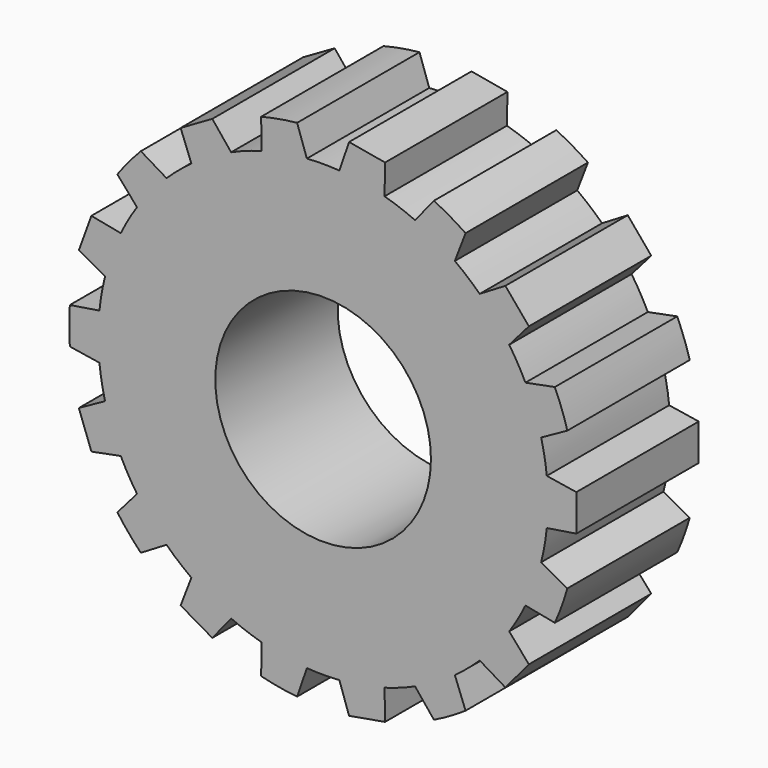
from build123d import *

# Parameters (mm, degrees)
F0_R     = 17.907
F1_DEPTH = 25.4


with BuildPart() as f1:
    # F0 (on Front) → F1 (new body)
    with BuildSketch(Plane.XZ):
        with BuildLine():
            Line((42.05466, 3.034541), (37.142847, 3.812496))
            ThreePointArc((37.142847, 3.812496), (36.770752, 6.483676), (36.20681, 9.121028))
            Line((36.20681, 9.121028), (40.556328, 11.532005))
            ThreePointArc((40.556328, 11.532005), (39.6212, 14.420937), (38.48058, 17.235077))
            Line((38.48058, 17.235077), (33.598909, 16.286176))
            ThreePointArc((33.598909, 16.286176), (32.335657, 18.669), (30.903697, 20.954421))
            Line((30.903697, 20.954421), (34.166304, 24.707621))
            Line((34.166304, 24.707621), (30.265173, 29.356808))
            Line((30.265173, 29.356808), (26.002447, 26.795504))
            ThreePointArc((26.002447, 26.795504), (24.000404, 28.602567), (21.873142, 30.260401))
            Line((21.873142, 30.260401), (23.65532, 34.903134))
            ThreePointArc((23.65532, 34.903134), (21.082, 36.515095), (18.39934, 37.937675))
            Line((18.39934, 37.937675), (15.269705, 34.072897))
            ThreePointArc((15.269705, 34.072897), (12.770348, 35.086243), (10.204363, 35.916531))
            Line((10.204363, 35.916531), (10.291155, 40.888813))
            Line((10.291155, 40.888813), (4.314275, 41.942698))
            Line((4.314275, 41.942698), (2.695212, 37.240597))
            ThreePointArc((2.695212, 37.240597), (0, 37.338), (-2.695212, 37.240597))
            Line((-2.695212, 37.240597), (-4.314275, 41.942698))
            ThreePointArc((-4.314275, 41.942698), (-7.321702, 41.523434), (-10.291155, 40.888813))
            Line((-10.291155, 40.888813), (-10.204363, 35.916531))
            ThreePointArc((-10.204363, 35.916531), (-12.770348, 35.086243), (-15.269705, 34.072897))
            Line((-15.269705, 34.072897), (-18.39934, 37.937675))
            Line((-18.39934, 37.937675), (-23.65532, 34.903134))
            Line((-23.65532, 34.903134), (-21.873142, 30.260401))
            ThreePointArc((-21.873142, 30.260401), (-24.000404, 28.602567), (-26.002447, 26.795504))
            Line((-26.002447, 26.795504), (-30.265173, 29.356808))
            ThreePointArc((-30.265173, 29.356808), (-32.299498, 27.102497), (-34.166304, 24.707621))
            Line((-34.166304, 24.707621), (-30.903697, 20.954421))
            ThreePointArc((-30.903697, 20.954421), (-32.335657, 18.669), (-33.598909, 16.286176))
            Line((-33.598909, 16.286176), (-38.48058, 17.235077))
            Line((-38.48058, 17.235077), (-40.556328, 11.532005))
            Line((-40.556328, 11.532005), (-36.20681, 9.121028))
            ThreePointArc((-36.20681, 9.121028), (-36.770752, 6.483676), (-37.142847, 3.812496))
            Line((-37.142847, 3.812496), (-42.05466, 3.034541))
            ThreePointArc((-42.05466, 3.034541), (-42.164, 0), (-42.05466, -3.034541))
            Line((-42.05466, -3.034541), (-37.142847, -3.812496))
            ThreePointArc((-37.142847, -3.812496), (-36.770752, -6.483676), (-36.20681, -9.121028))
            Line((-36.20681, -9.121028), (-40.556328, -11.532005))
            Line((-40.556328, -11.532005), (-38.48058, -17.235077))
            Line((-38.48058, -17.235077), (-33.598909, -16.286176))
            ThreePointArc((-33.598909, -16.286176), (-32.335657, -18.669), (-30.903697, -20.954421))
            Line((-30.903697, -20.954421), (-34.166304, -24.707621))
            ThreePointArc((-34.166304, -24.707621), (-32.299498, -27.102497), (-30.265173, -29.356808))
            Line((-30.265173, -29.356808), (-26.002447, -26.795504))
            ThreePointArc((-26.002447, -26.795504), (-24.000404, -28.602567), (-21.873142, -30.260401))
            Line((-21.873142, -30.260401), (-23.65532, -34.903134))
            Line((-23.65532, -34.903134), (-18.39934, -37.937675))
            Line((-18.39934, -37.937675), (-15.269705, -34.072897))
            ThreePointArc((-15.269705, -34.072897), (-12.770348, -35.086243), (-10.204363, -35.916531))
            Line((-10.204363, -35.916531), (-10.291155, -40.888813))
            ThreePointArc((-10.291155, -40.888813), (-7.321702, -41.523434), (-4.314275, -41.942698))
            Line((-4.314275, -41.942698), (-2.695212, -37.240597))
            ThreePointArc((-2.695212, -37.240597), (0, -37.338), (2.695212, -37.240597))
            Line((2.695212, -37.240597), (4.314275, -41.942698))
            Line((4.314275, -41.942698), (10.291155, -40.888813))
            Line((10.291155, -40.888813), (10.204363, -35.916531))
            ThreePointArc((10.204363, -35.916531), (12.770348, -35.086243), (15.269705, -34.072897))
            Line((15.269705, -34.072897), (18.39934, -37.937675))
            ThreePointArc((18.39934, -37.937675), (21.082, -36.515095), (23.65532, -34.903134))
            Line((23.65532, -34.903134), (21.873142, -30.260401))
            ThreePointArc((21.873142, -30.260401), (24.000404, -28.602567), (26.002447, -26.795504))
            Line((26.002447, -26.795504), (30.265173, -29.356808))
            Line((30.265173, -29.356808), (34.166304, -24.707621))
            Line((34.166304, -24.707621), (30.903697, -20.954421))
            ThreePointArc((30.903697, -20.954421), (32.335657, -18.669), (33.598909, -16.286176))
            Line((33.598909, -16.286176), (38.48058, -17.235077))
            ThreePointArc((38.48058, -17.235077), (39.6212, -14.420937), (40.556328, -11.532005))
            Line((40.556328, -11.532005), (36.20681, -9.121028))
            ThreePointArc((36.20681, -9.121028), (36.770752, -6.483676), (37.142847, -3.812496))
            Line((37.142847, -3.812496), (42.05466, -3.034541))
            Line((42.05466, -3.034541), (42.05466, 3.034541))
        make_face()
        Circle(F0_R, mode=Mode.SUBTRACT)
    extrude(amount=F1_DEPTH)


solid = f1.part
